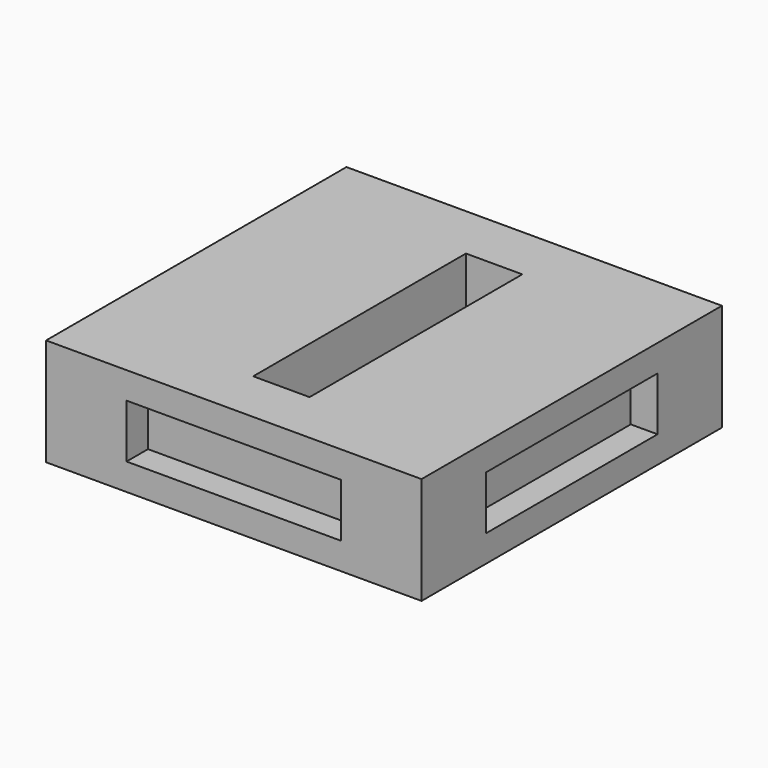
from build123d import *

# Parameters (mm, degrees)
F0_W     = 35.56
F0_H     = 35.56
F0_W_2   = 5.3412760417
F0_H_2   = 25.1850260417
F1_DEPTH = 5.08
F2_W     = 19.812
F2_H     = 4.572
F3_DEPTH = 2.54
F4_W     = 19.812
F4_H     = 4.572
F5_DEPTH = 2.54
F6_W     = 20.32
F6_H     = 5.08
F7_DEPTH = 2.54
F8_W     = 20.32
F8_H     = 5.08
F9_DEPTH = 2.54


with BuildPart() as f1:
    # F0 (on Top) → F1 (new body, symmetric)
    with BuildSketch(Plane.XY):
        Rectangle(F0_W, F0_H)
        with Locations((0.4409722222, -0.1074869792)):
            Rectangle(F0_W_2, F0_H_2, mode=Mode.SUBTRACT)
    extrude(amount=F1_DEPTH, both=True)

    # F2 (on face) → F3 (join)
    with BuildSketch(Plane(origin=(0, 17.78, 0), x_dir=(-1, 0, 0), z_dir=(0, 1, 0))):
        Rectangle(F2_W, F2_H)
    extrude(amount=F3_DEPTH)

    # F4 (on face) → F5 (join)
    with BuildSketch(Plane(origin=(-17.78, 0, 0), x_dir=(0, -1, 0), z_dir=(-1, 0, 0))):
        Rectangle(F4_W, F4_H)
    extrude(amount=F5_DEPTH)

    # F6 (on face) → F7 (cut)
    with BuildSketch(Plane.XZ.offset(17.78)):
        Rectangle(F6_W, F6_H)
    extrude(amount=-F7_DEPTH, mode=Mode.SUBTRACT)

    # F8 (on face) → F9 (cut)
    with BuildSketch(Plane.YZ.offset(17.78)):
        Rectangle(F8_W, F8_H)
    extrude(amount=-F9_DEPTH, mode=Mode.SUBTRACT)


solid = f1.part
